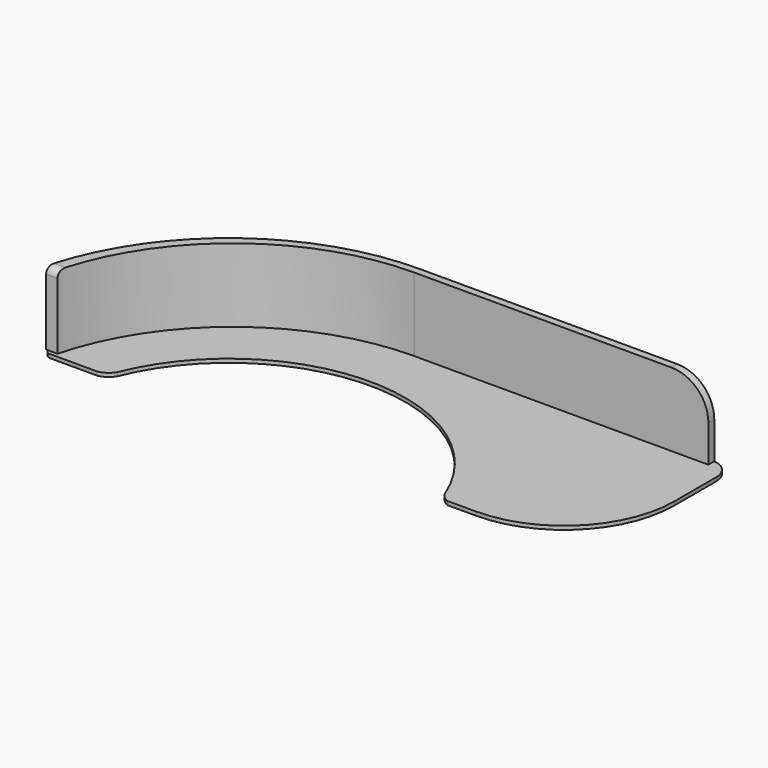
from build123d import *

# Parameters (mm, degrees)
PAD_DEPTH    = 1
PAD004_DEPTH = 20
FILLET_R     = 10
FILLET001_R  = 2


with BuildPart() as part:
    # Sketch → Pad (new body)
    with BuildSketch(Plane.XY):
        with BuildLine():
            ThreePointArc((0, 65), (-39.250322, 51.811314), (-62.572638, 17.5973))
            ThreePointArc((-62.572638, 17.5973), (-62.281657, 16.256919), (-61.1956, 15.4192))
            Line((-61.1956, 15.4192), (-48.0942, 15.4192))
            ThreePointArc((-48.0942, 15.4192), (-46.017568, 16.268418), (-44.521334, 17.9402))
            ThreePointArc((44.629065, 17.6705), (0.14521, 47.99978), (-44.521334, 17.9402))
            ThreePointArc((44.629065, 17.6705), (45.695788, 16.297968), (47.167959, 15.3736))
            Line((47.167959, 15.3736), (54.923211, 15.384158))
            ThreePointArc((54.923211, 15.384158), (76.110008, 24.185371), (84.88237, 45.38413))
            Line((84.88237, 59.61183), (84.88237, 45.38413))
            ThreePointArc((84.88237, 59.61183), (83.304212, 63.421842), (79.4942, 65))
            Line((0, 65), (79.4942, 65))
        make_face()
    extrude(amount=PAD_DEPTH)

    # Sketch001 → Pad004 (new body)
    with BuildSketch(Plane.XY.offset(1)):
        with BuildLine():
            ThreePointArc((6e-05, 65), (-39.693641, 51.472467), (-62.865542, 16.5204))
            Line((-62.865542, 16.5204), (-59.765542, 16.5204))
            ThreePointArc((6e-05, 63), (-37.80132, 49.942273), (-59.765542, 16.5204))
            Line((80.00006, 63), (6e-05, 63))
            Line((80.00006, 65), (80.00006, 63))
            Line((6e-05, 65), (80.00006, 65))
        make_face()
    extrude(amount=PAD004_DEPTH)

    # Fillet
    fillet_edges = [part.edges().sort_by_distance(p)[0] for p in [
        (80.00006, 64, 21),
    ]]
    fillet(fillet_edges, radius=FILLET_R)

    # Fillet001
    fillet001_edges = [part.edges().sort_by_distance(p)[0] for p in [
        (-61.315542, 16.5204, 21),
    ]]
    fillet(fillet001_edges, radius=FILLET001_R)


solid = part.part
